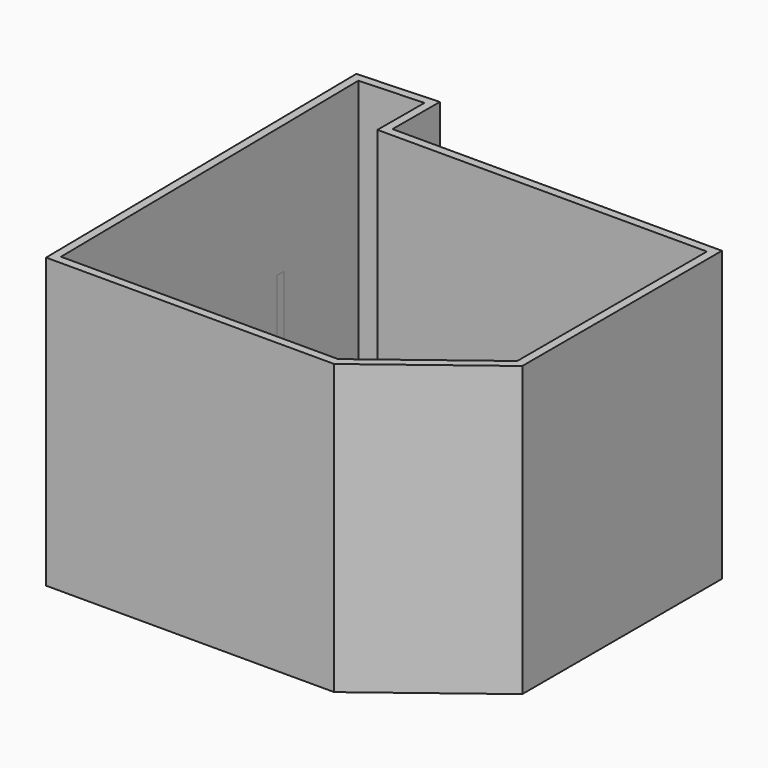
from build123d import *

# Parameters (mm, degrees)
F1_DEPTH = 62.4507963657
F2_W     = 60.3333711624
F2_H     = 19.3066857755
F4_DEPTH = 51.1555597186
F5_DEPTH = 25.4
F6_T     = -2.54


with BuildPart() as f1:
    # F0 (on Top) → F1 (new body)
    with BuildSketch(Plane.XY):
        Polygon((-39.5169705153, 66.5083825588), (-64.0413761139, 65.3912201524), (-62.551535666, -54.3909370899), (25.0678188681, -54.3909370899), (60.5918616056, -27.2963196039), (60.5918616056, 48.5934764147), (-39.5946651697, 48.5934764147), align=None)
    extrude(amount=F1_DEPTH)

    # F2 (on Top) → F4 (join)
    with BuildSketch(Plane.XY):
        with Locations((-33.4883257747, 38.7507472187)):
            Rectangle(F2_W, F2_H)
    extrude(amount=F4_DEPTH)

    # F5 (add): a face of the model
    f5_faces = [f1.faces().sort_by_distance(p)[0] for p in [
        (-4.8768218944, 0.8081448517, 62.4507963657),
    ]]
    extrude(f5_faces, amount=F5_DEPTH)

    # F6
    f6_openings = [f1.faces().sort_by_distance(p)[0] for p in [
        (-4.876822, 0.808145, 87.850796),
    ]]
    offset(amount=F6_T, openings=f6_openings, kind=Kind.INTERSECTION)


solid = f1.part
